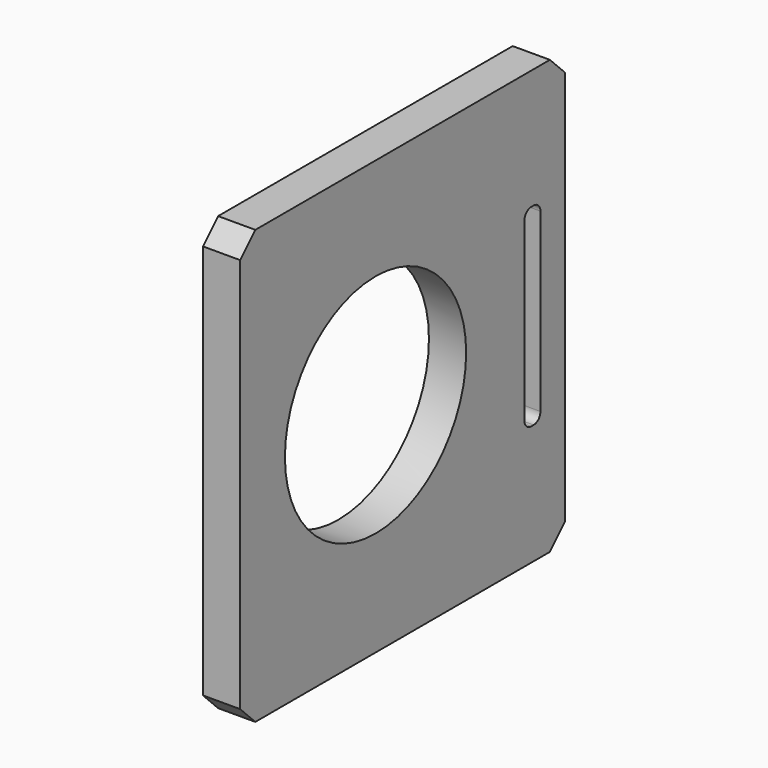
from build123d import *

# Parameters (mm, degrees)
F0_W     = 30.48
F0_H     = 32.512
F0_R     = 8.50011
F0_W_2   = 1.4986
F0_H_2   = 14.5034
F1_DEPTH = 2.794
F2_SIZE  = 1.4224
F3_SIZE  = 1.4224
F4_SIZE  = 1.4224
F5_SIZE  = 1.4224
F6_R     = 0.635
F7_R     = 0.635
F8_R     = 0.635
F9_R     = 0.635


with BuildPart() as f1:
    # F0 (on Right) → F1 (new body)
    with BuildSketch(Plane.YZ):
        with Locations((42.135775, 10.835214)):
            Rectangle(F0_W, F0_H)
        with Locations((39.595775, 10.939535)):
            Circle(F0_R, mode=Mode.SUBTRACT)
        with Locations((54.315075, 10.835214)):
            Rectangle(F0_W_2, F0_H_2, mode=Mode.SUBTRACT)
    extrude(amount=F1_DEPTH)

    # F2
    f2_edges = [f1.edges().sort_by_distance(p)[0] for p in [
        (1.397, 57.375775, 27.091214),
    ]]
    chamfer(f2_edges, length=F2_SIZE)

    # F3
    f3_edges = [f1.edges().sort_by_distance(p)[0] for p in [
        (1.397, 26.895775, 27.091214),
    ]]
    chamfer(f3_edges, length=F3_SIZE)

    # F4
    f4_edges = [f1.edges().sort_by_distance(p)[0] for p in [
        (1.397, 26.895775, -5.420786),
    ]]
    chamfer(f4_edges, length=F4_SIZE)

    # F5
    f5_edges = [f1.edges().sort_by_distance(p)[0] for p in [
        (1.397, 57.375775, -5.420786),
    ]]
    chamfer(f5_edges, length=F5_SIZE)

    # F6
    f6_edges = [f1.edges().sort_by_distance(p)[0] for p in [
        (1.397, 53.565775, 3.583514),
    ]]
    fillet(f6_edges, radius=F6_R)

    # F7
    f7_edges = [f1.edges().sort_by_distance(p)[0] for p in [
        (1.397, 55.064375, 3.583514),
    ]]
    fillet(f7_edges, radius=F7_R)

    # F8
    f8_edges = [f1.edges().sort_by_distance(p)[0] for p in [
        (1.397, 53.565775, 18.086914),
    ]]
    fillet(f8_edges, radius=F8_R)

    # F9
    f9_edges = [f1.edges().sort_by_distance(p)[0] for p in [
        (1.397, 55.064375, 18.086914),
    ]]
    fillet(f9_edges, radius=F9_R)


solid = f1.part
